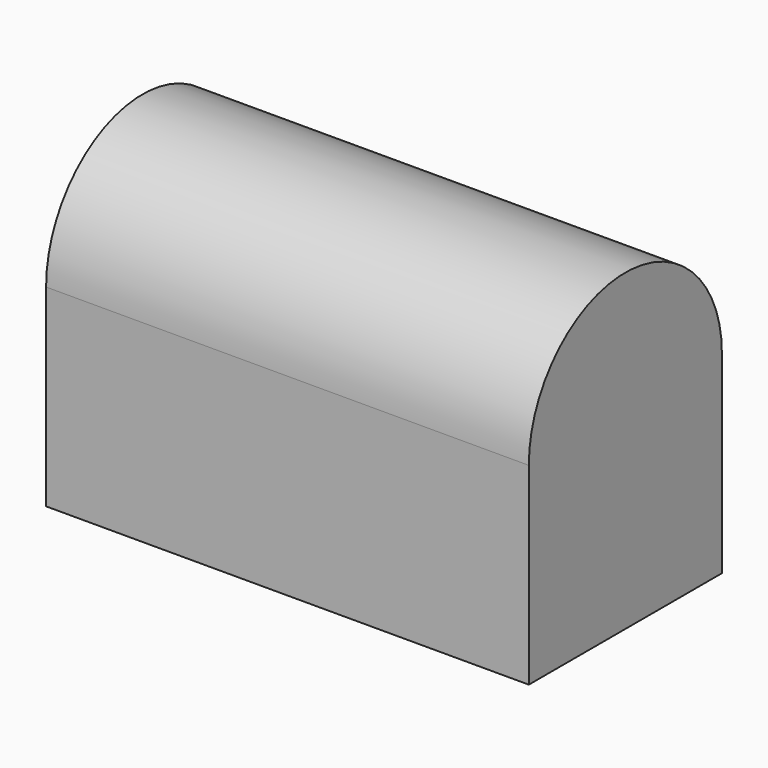
from build123d import *

# Parameters (mm, degrees)
F0_W     = 100
F0_H     = 50
F1_DEPTH = 40
F2_T     = -2.5
F4_DEPTH = 50


with BuildPart() as f1:
    # F0 (on Top) → F1 (new body)
    with BuildSketch(Plane.XY):
        Rectangle(F0_W, F0_H)
    extrude(amount=-F1_DEPTH)

    # F2
    f2_openings = [f1.faces().sort_by_distance(p)[0] for p in [
        (0, 0, 0),
    ]]
    offset(amount=F2_T, openings=f2_openings)

    # F3 (on Right) → F4 (join, symmetric)
    with BuildSketch(Plane.YZ):
        with BuildLine():
            Line((-25, 0), (25, 0))
            ThreePointArc((25, 0), (0, 25), (-25, 0))
        make_face()
    extrude(amount=F4_DEPTH, both=True)


solid = f1.part
